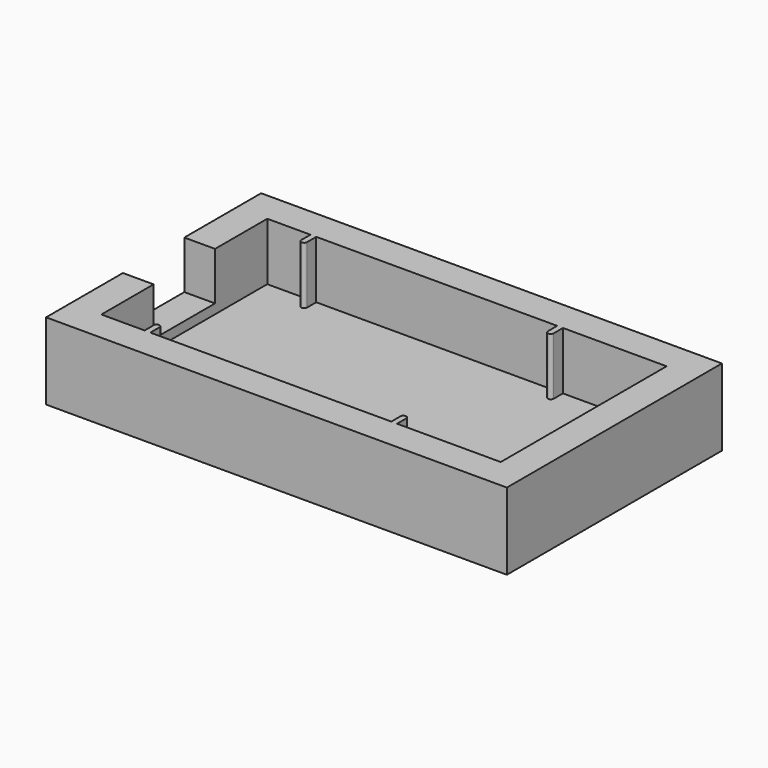
from build123d import *

# Parameters (mm, degrees)
SKETCH_W        = 48
SKETCH_H        = 28
PAD_DEPTH       = 8
POCKET_DEPTH    = 6
SKETCH002_W     = 4
SKETCH002_H     = 8
POCKET001_DEPTH = 5


with BuildPart() as part:
    # Sketch → Pad (new body)
    with BuildSketch(Plane.XY):
        with Locations((24, 14)):
            Rectangle(SKETCH_W, SKETCH_H)
    extrude(amount=PAD_DEPTH)

    # Sketch001 → Pocket (cut)
    with BuildSketch(Plane.XY.offset(8)):
        with BuildLine():
            Line((3.2, 3.2), (7.7, 3.2))
            Line((7.7, 3.2), (7.7, 4.4))
            ThreePointArc((8.3, 4.4), (8, 4.7), (7.7, 4.4))
            Line((8.3, 4.4), (8.3, 3.2))
            Line((8.3, 3.2), (33.4, 3.2))
            Line((33.4, 3.2), (33.4, 4.4))
            ThreePointArc((34, 4.4), (33.7, 4.7), (33.4, 4.4))
            Line((34, 4.4), (34, 3.2))
            Line((34, 3.2), (44.8, 3.2))
            Line((44.8, 3.2), (44.8, 24.8))
            Line((44.8, 24.8), (34, 24.8))
            Line((34, 24.8), (34, 23.6))
            ThreePointArc((33.4, 23.6), (33.7, 23.3), (34, 23.6))
            Line((33.4, 23.6), (33.4, 24.8))
            Line((33.4, 24.8), (8.3, 24.8))
            Line((8.3, 24.8), (8.3, 23.6))
            ThreePointArc((7.7, 23.6), (8, 23.3), (8.3, 23.6))
            Line((7.7, 23.6), (7.7, 24.8))
            Line((7.7, 24.8), (3.2, 24.8))
            Line((3.2, 24.8), (3.2, 3.2))
        make_face()
    extrude(amount=-POCKET_DEPTH, mode=Mode.SUBTRACT)

    # Sketch002 → Pocket001 (cut)
    with BuildSketch(Plane.XY.offset(8)):
        with Locations((2, 14)):
            Rectangle(SKETCH002_W, SKETCH002_H)
    extrude(amount=-POCKET001_DEPTH, mode=Mode.SUBTRACT)


solid = part.part
